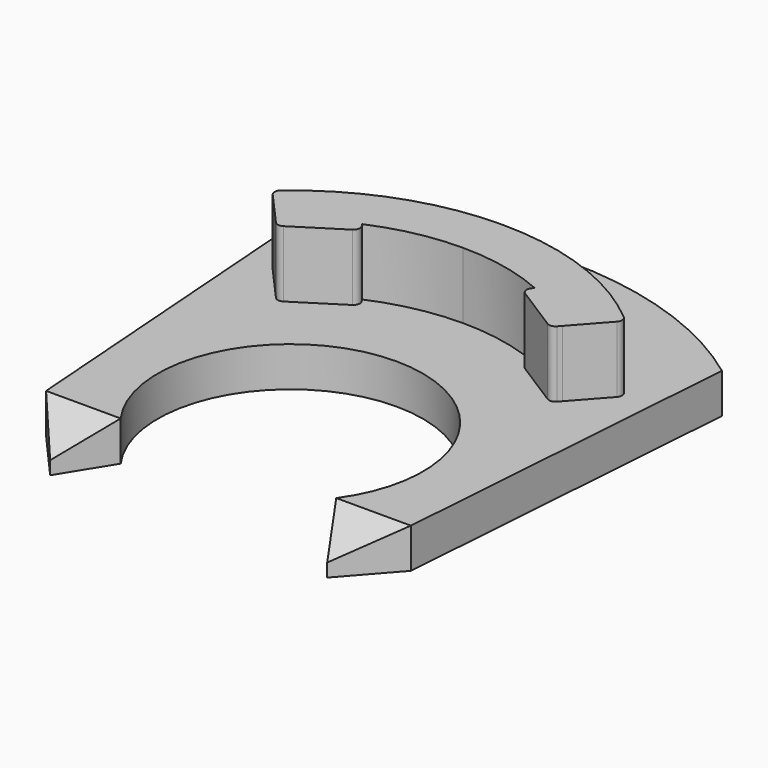
from build123d import *

# Parameters (mm, degrees)
F1_DEPTH = 1.2
F3_DEPTH = 12.5
F5_DEPTH = 2


with BuildPart() as f1:
    # F0 (on Top) → F1 (new body)
    with BuildSketch(Plane.XY):
        with BuildLine():
            ThreePointArc((-3.25, -2.331845), (0, 4), (3.25, -2.331845))
            Line((3.25, -2.331845), (4.177124, -3.831845))
            Line((4.177124, -3.831845), (5.5, -2.331845))
            Line((5.5, -2.331845), (6.286185, 8.410343))
            ThreePointArc((6.286185, 8.410343), (0, 10.5), (-6.286185, 8.410343))
            Line((-6.286185, 8.410343), (-5.5, -2.331845))
            Line((-5.5, -2.331845), (-4.177124, -3.831845))
            Line((-4.177124, -3.831845), (-3.25, -2.331845))
        make_face()
    extrude(amount=F1_DEPTH)

    # F2 (on Right) → F3 (cut, symmetric)
    with BuildSketch(Plane.YZ):
        Polygon((-3.831845, 0.4), (-2.331845, 1.2), (-3.831845, 1.2), align=None)
    extrude(amount=F3_DEPTH, both=True, mode=Mode.SUBTRACT)

    # F4 (on face) → F5 (join)
    with BuildSketch(Plane.XY.offset(1.2)):
        with BuildLine():
            ThreePointArc((5.167966, 6.106728), (2.751924, 7.511785), (0, 8))
            ThreePointArc((0, 8), (-2.751924, 7.511785), (-5.167966, 6.106728))
            ThreePointArc((-5.167966, 6.106728), (-5.238273, 5.968098), (-5.188072, 5.820989))
            Line((-5.188072, 5.820989), (-4.324815, 4.852419))
            Line((-4.324815, 4.852419), (-4.238297, 4.755347))
            ThreePointArc((-4.238297, 4.755347), (-4.116589, 4.690331), (-3.981744, 4.719604))
            Line((-3.981744, 4.719604), (-2.605887, 5.593689))
            ThreePointArc((-2.605887, 5.593689), (-2.51793, 5.718968), (-2.544321, 5.86975))
            Line((-2.544321, 5.86975), (-2.599979, 5.957358))
            ThreePointArc((-2.599979, 5.957358), (-1.328001, 6.362893), (0, 6.5))
            ThreePointArc((0, 6.5), (1.328001, 6.362893), (2.599979, 5.957358))
            Line((2.599979, 5.957358), (2.544321, 5.86975))
            ThreePointArc((2.544321, 5.86975), (2.51793, 5.718968), (2.605887, 5.593689))
            Line((2.605887, 5.593689), (3.981744, 4.719604))
            ThreePointArc((3.981744, 4.719604), (4.116589, 4.690331), (4.238297, 4.755347))
            Line((4.238297, 4.755347), (4.324815, 4.852419))
            Line((4.324815, 4.852419), (5.188072, 5.820989))
            ThreePointArc((5.188072, 5.820989), (5.238273, 5.968098), (5.167966, 6.106728))
        make_face()
    extrude(amount=F5_DEPTH)


solid = f1.part
